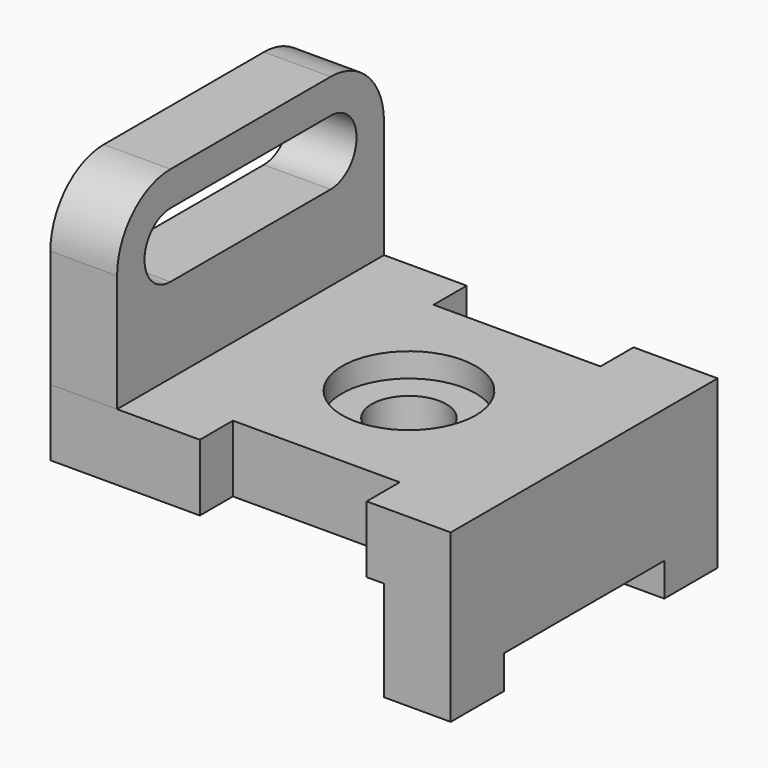
from build123d import *

# Parameters (mm, degrees)
F0_W       = 63.5
F0_H       = 31.75
F1_DEPTH   = 76.2
F2_DEPTH   = 12.7
F3_W       = 38.1
F3_H       = 6.35
F4_DEPTH   = 76.201
F6_W       = 63.5
F6_H       = 19.05
F7_DEPTH   = 63.5
F5_W       = 31.75
F5_H       = 7.874
F8_DEPTH   = 25.4
F9_R       = 12.7
F9_R_2     = 7.112
F10_DEPTH  = 4.572
F10_FACE_R = 7.112
F11_DEPTH  = 25.4


with BuildPart() as f1:
    # F0 (on Right) → F1 (new body)
    with BuildSketch(Plane.YZ):
        with Locations((-8.70918, 15.875)):
            Rectangle(F0_W, F0_H)
    extrude(amount=F1_DEPTH)

    # F3 (on face) → F4 (cut, through all)
    with BuildSketch(Plane.YZ.offset(76.2)):
        with Locations((-8.70918, 3.175)):
            Rectangle(F3_W, F3_H)
    extrude(amount=-F4_DEPTH, mode=Mode.SUBTRACT)

    # F6 (on face) → F7 (cut)
    with BuildSketch(Plane.XZ.offset(40.45918)):
        with Locations((31.75, 9.525)):
            Rectangle(F6_W, F6_H)
    extrude(amount=-F7_DEPTH, mode=Mode.SUBTRACT)

    # F5 (on face) → F8 (cut)
    with BuildSketch(Plane.XY.offset(31.75)):
        with Locations((44.323, -36.52218)):
            Rectangle(F5_W, F5_H)
        with Locations((44.323, 19.10382)):
            Rectangle(F5_W, F5_H)
    extrude(amount=-F8_DEPTH, mode=Mode.SUBTRACT)

    # F9 (on face) → F10 (cut)
    with BuildSketch(Plane.XY.offset(31.75)):
        with Locations((42.84896, -8.70918)):
            Circle(F9_R)
        with Locations((42.84896, -8.70918)):
            Circle(F9_R_2, mode=Mode.SUBTRACT)
    extrude(amount=-F10_DEPTH, mode=Mode.SUBTRACT)

    # F10_face (on face) → F11 (cut)
    with BuildSketch(Plane(origin=(42.84896, -8.70918, 31.75), x_dir=(1, 0, 0), z_dir=(0, 0, 1))):
        Circle(F10_FACE_R)
    extrude(amount=-F11_DEPTH, mode=Mode.SUBTRACT)


with BuildPart() as f2:
    # F0 (on Right) → F2 (new body)
    with BuildSketch(Plane.YZ):
        with BuildLine():
            Line((-40.45918, 54.102), (-40.45918, 31.75))
            Line((-40.45918, 31.75), (23.04082, 31.75))
            Line((23.04082, 31.75), (23.04082, 54.102))
            ThreePointArc((23.04082, 54.102), (19.321077, 63.082256), (10.34082, 66.802))
            Line((10.34082, 66.802), (-27.75918, 66.802))
            ThreePointArc((-27.75918, 66.802), (-36.739436, 63.082256), (-40.45918, 54.102))
        make_face()
        with BuildLine():
            ThreePointArc((-27.75918, 47.927062), (-33.934118, 54.102), (-27.75918, 60.276938))
            Line((-27.75918, 60.276938), (10.34082, 60.276938))
            ThreePointArc((10.34082, 60.276938), (16.515758, 54.102), (10.34082, 47.927062))
            Line((10.34082, 47.927062), (-27.75918, 47.927062))
        make_face(mode=Mode.SUBTRACT)
    extrude(amount=F2_DEPTH)


solid = Compound([f1.part, f2.part])
